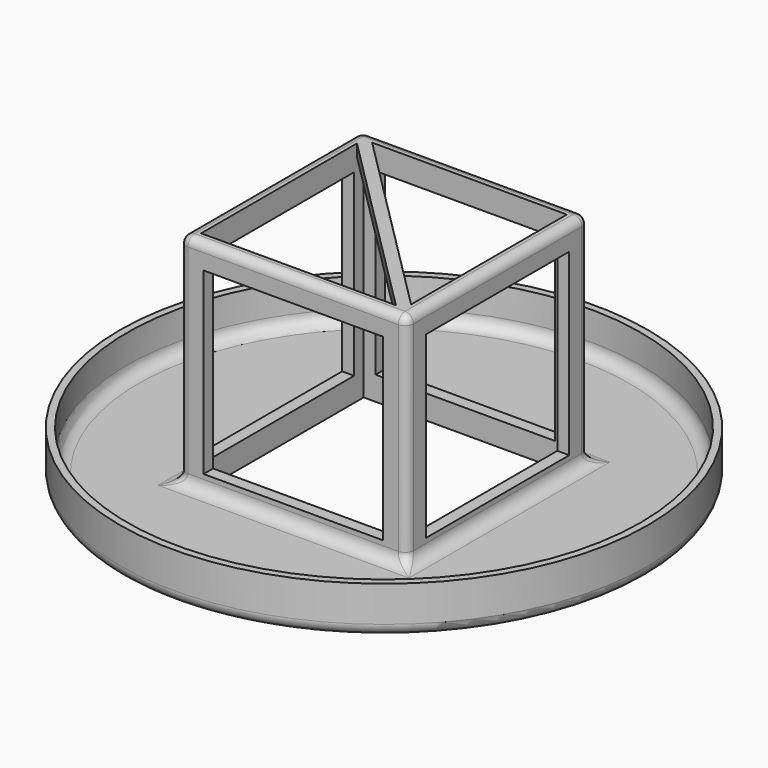
from build123d import *

# Parameters (mm, degrees)
SKETCH001_R          = 44.2
SKETCH001_W          = 34
SKETCH001_H          = 34
PAD_DEPTH            = 1.2
SKETCH002_W          = 38
SKETCH002_H          = 38
SKETCH002_W_2        = 34
SKETCH002_H_2        = 34
PAD001_DEPTH         = 36
SKETCH003_W          = 38
SKETCH003_H          = 38
PAD002_DEPTH         = 2
SKETCH004_W          = 30
SKETCH004_H          = 30
POCKET_DEPTH         = 44.201
POCKET_DEPTH_BACK    = -44.201
SKETCH005_W          = 30
SKETCH005_H          = 30
POCKET001_DEPTH      = 44.201
POCKET001_DEPTH_BACK = -44.201
POCKET002_DEPTH      = 299.329299
POLARPATTERN_COUNT   = 2
SKETCH007_R          = 44.2
SKETCH007_R_2        = 43
PAD003_DEPTH         = 8
FILLET_R             = 2
FILLET001_R          = 2
FILLET002_R          = 1.4


with BuildPart() as part:
    # Sketch001 → Pad (new body)
    with BuildSketch(Plane.XY):
        Circle(SKETCH001_R)
        Rectangle(SKETCH001_W, SKETCH001_H, mode=Mode.SUBTRACT)
    extrude(amount=PAD_DEPTH)

    # Sketch002 → Pad001 (join)
    with BuildSketch(Plane.XY):
        Rectangle(SKETCH002_W, SKETCH002_H)
        Rectangle(SKETCH002_W_2, SKETCH002_H_2, mode=Mode.SUBTRACT)
    extrude(amount=PAD001_DEPTH)

    # Sketch003 (on Plane of DatumPlane) → Pad002 (join)
    with BuildSketch(Plane.XY.offset(36)):
        Rectangle(SKETCH003_W, SKETCH003_H)
    extrude(amount=PAD002_DEPTH)

    # Sketch004 → Pocket (cut, two sides)
    with BuildSketch(Plane.YZ) as pocket_sk:
        with Locations((0, 19)):
            Rectangle(SKETCH004_W, SKETCH004_H)
    extrude(amount=-POCKET_DEPTH, mode=Mode.SUBTRACT)
    extrude(pocket_sk.sketch, amount=-POCKET_DEPTH_BACK, mode=Mode.SUBTRACT)

    # Sketch005 → Pocket001 (cut, two sides)
    with BuildSketch(Plane.XZ) as pocket001_sk:
        with Locations((0, 19)):
            Rectangle(SKETCH005_W, SKETCH005_H)
    extrude(amount=-POCKET001_DEPTH, mode=Mode.SUBTRACT)
    extrude(pocket001_sk.sketch, amount=-POCKET001_DEPTH_BACK, mode=Mode.SUBTRACT)

    # Sketch006 → Pocket002 (cut, through all)
    with BuildSketch(Plane.XY):
        Polygon((-17, 15.585786), (-17, -17), (15.585786, -17), align=None)
    pocket002 = extrude(amount=POCKET002_DEPTH, mode=Mode.SUBTRACT)

    # PolarPattern: Pocket002 ×2 about axis
    polarpattern_axis = Axis((0, 0, 0), (0, 0, 1))
    for i in range(1, POLARPATTERN_COUNT):
        add(pocket002.rotate(polarpattern_axis, i * 360 / POLARPATTERN_COUNT), mode=Mode.SUBTRACT)

    # Sketch007 → Pad003 (join)
    with BuildSketch(Plane.XY):
        Circle(SKETCH007_R)
        Circle(SKETCH007_R_2, mode=Mode.SUBTRACT)
    extrude(amount=PAD003_DEPTH)

    # Fillet
    fillet_edges = [part.edges().sort_by_distance(p)[0] for p in [
        (0, -19, 1.2),
        (-19, 0, 1.2),
        (19, 0, 1.2),
        (0, 19, 1.2),
        (-43, 0, 1.2),
    ]]
    fillet(fillet_edges, radius=FILLET_R)

    # Fillet001
    fillet001_edges = [part.edges().sort_by_distance(p)[0] for p in [
        (-44.2, 0, 0),
    ]]
    fillet(fillet001_edges, radius=FILLET001_R)

    # Fillet002
    fillet002_edges = [part.edges().sort_by_distance(p)[0] for p in [
        (19, 0, 38),
        (0, -19, 38),
        (-19, 0, 38),
        (0, 19, 38),
        (19, 19, 19.6),
        (19, -19, 19.6),
        (-19, -19, 19.6),
        (-19, 19, 19.6),
    ]]
    fillet(fillet002_edges, radius=FILLET002_R)


solid = part.part
